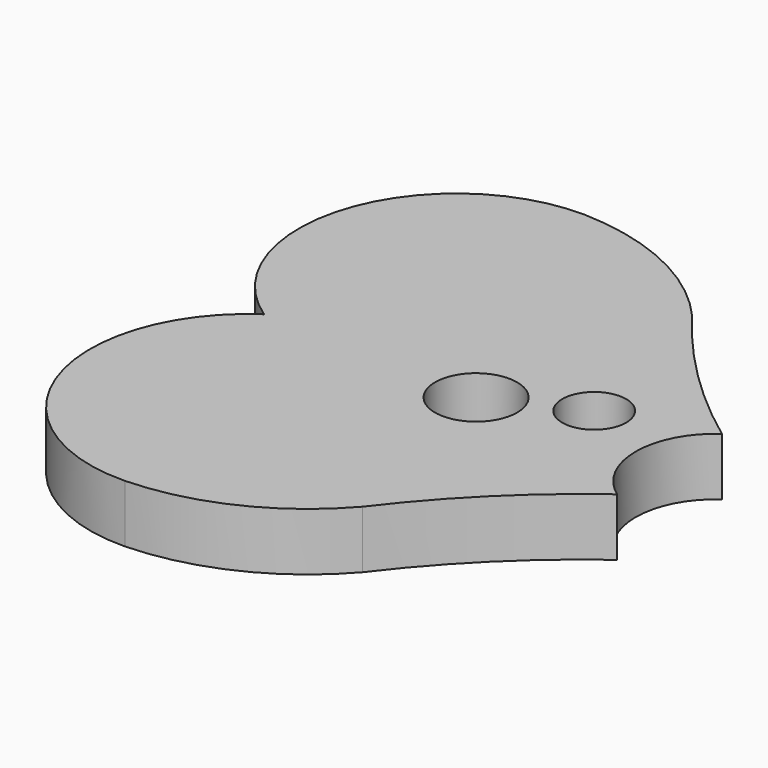
from build123d import *

# Parameters (mm, degrees)
F0_R     = 3.251044
F0_R_2   = 2.532183
F1_DEPTH = 4.572


with BuildPart() as f1:
    # F0 (on Top) → F1 (new body)
    with BuildSketch(Plane.XY):
        with BuildLine():
            ThreePointArc((26.297173, -6.489626), (20.14867, -1.814141), (12.640465, 0))
            ThreePointArc((12.640465, 0), (0.511468, -8.706083), (5.432757, -22.801805))
            ThreePointArc((5.432757, -22.801805), (0.511468, -36.897527), (12.640465, -45.603611))
            ThreePointArc((12.640465, -45.603611), (20.14867, -43.78947), (26.297173, -39.113984))
            ThreePointArc((26.297173, -39.113984), (31.520039, -33.141343), (37.551314, -27.986296))
            ThreePointArc((37.551314, -27.986296), (34.86808, -22.801805), (37.551314, -17.617315))
            ThreePointArc((37.551314, -17.617315), (31.520039, -12.462268), (26.297173, -6.489626))
        make_face()
        with Locations((22.630094, -23.30761)):
            Circle(F0_R, mode=Mode.SUBTRACT)
        with Locations((29.45845, -20.146335)):
            Circle(F0_R_2, mode=Mode.SUBTRACT)
    extrude(amount=F1_DEPTH)


solid = f1.part
